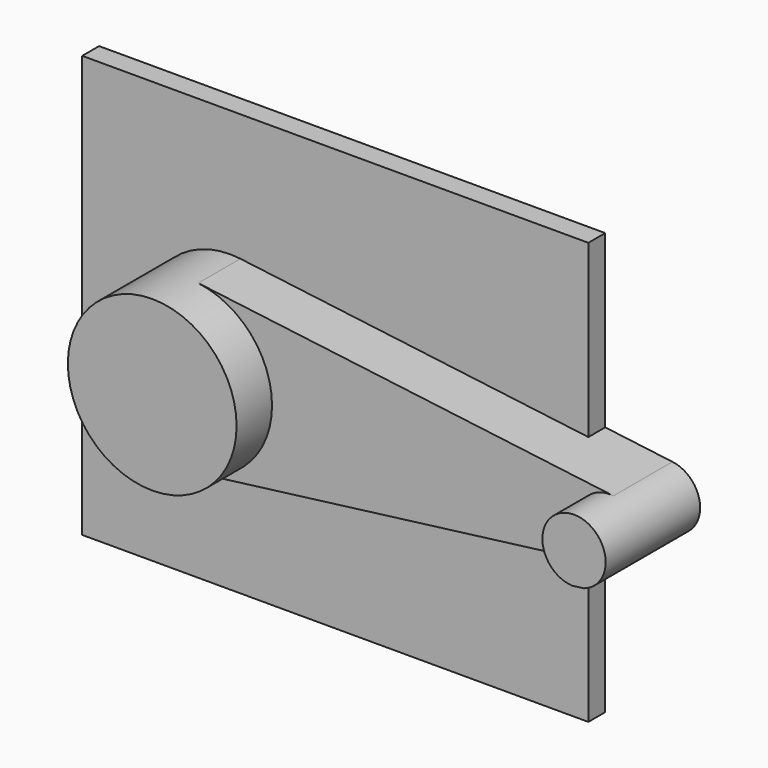
from build123d import *

# Parameters (mm, degrees)
F1_DEPTH = 25.4
F2_DEPTH = 88.9
F3_DEPTH = 142.24


with BuildPart() as f1:
    # F0 (on Front) → F1 (new body)
    with BuildSketch(Plane.XZ):
        with BuildLine():
            Line((228.6, 254), (-381, 254))
            Line((-381, 254), (-381, -254))
            Line((-381, -254), (228.6, -254))
            Line((228.6, -254), (228.6, -47.4305862601))
            Line((228.6, -47.4305862601), (-190.3648431942, -100.7860047317))
            ThreePointArc((-190.3648431942, -100.7860047317), (-304.7999771648, -0.0681183971), (-190.5, 100.8031249516))
            Line((-190.5, 100.8031249516), (228.6, 48.0014880722))
            Line((228.6, 48.0014880722), (228.6, 254))
        make_face()
        with BuildLine():
            Line((309.5625, 37.8011718568), (228.6, 48.0014880722))
            Line((228.6, 48.0014880722), (228.6, -47.4305862601))
            Line((228.6, -47.4305862601), (302.4409560086, -38.0268972104))
            ThreePointArc((302.4409560086, -38.0268972104), (266.8669251864, 3.5625602015), (309.5625, 37.8011718568))
        make_face()
        with BuildLine():
            Line((228.6, -47.4305862601), (228.6, 48.0014880722))
            Line((228.6, 48.0014880722), (-190.5, 100.8031249516))
            ThreePointArc((-190.5, 100.8031249516), (-127, 67.202083301), (-101.6, 0))
            ThreePointArc((-101.6, 0), (-126.9549610418, -67.1509793991), (-190.3648431942, -100.7860047317))
            Line((-190.3648431942, -100.7860047317), (228.6, -47.4305862601))
        make_face()
        with BuildLine():
            ThreePointArc((342.9, 0), (333.375, 25.2007812379), (309.5625, 37.8011718568))
            ThreePointArc((309.5625, 37.8011718568), (266.8669251864, 3.5625602015), (302.4409560086, -38.0268972104))
            Line((302.4409560086, -38.0268972104), (316.6146676198, -36.2218667249))
            ThreePointArc((316.6146676198, -36.2218667249), (335.6362516879, -22.37712184), (342.9, 0))
        make_face()
        with BuildLine():
            Line((316.6146676198, -36.2218667249), (302.4409560086, -38.0268972104))
            ThreePointArc((302.4409560086, -38.0268972104), (309.6131838022, -37.7947517744), (316.6146676198, -36.2218667249))
        make_face()
        with BuildLine():
            ThreePointArc((-101.6, 0), (-127, 67.202083301), (-190.5, 100.8031249516))
            ThreePointArc((-190.5, 100.8031249516), (-304.7999771648, -0.0681183971), (-190.3648431942, -100.7860047317))
            ThreePointArc((-190.3648431942, -100.7860047317), (-126.9549610418, -67.1509793991), (-101.6, 0))
        make_face()
        with BuildLine():
            Line((228.6, -47.4305862601), (228.6, 48.0014880722))
            Line((228.6, 48.0014880722), (-190.5, 100.8031249516))
            ThreePointArc((-190.5, 100.8031249516), (-127, 67.202083301), (-101.6, 0))
            ThreePointArc((-101.6, 0), (-126.9549610418, -67.1509793991), (-190.3648431942, -100.7860047317))
            Line((-190.3648431942, -100.7860047317), (228.6, -47.4305862601))
        make_face()
        with BuildLine():
            Line((309.5625, 37.8011718568), (228.6, 48.0014880722))
            Line((228.6, 48.0014880722), (228.6, -47.4305862601))
            Line((228.6, -47.4305862601), (302.4409560086, -38.0268972104))
            ThreePointArc((302.4409560086, -38.0268972104), (266.8669251864, 3.5625602015), (309.5625, 37.8011718568))
        make_face()
        with BuildLine():
            ThreePointArc((342.9, 0), (333.375, 25.2007812379), (309.5625, 37.8011718568))
            ThreePointArc((309.5625, 37.8011718568), (266.8669251864, 3.5625602015), (302.4409560086, -38.0268972104))
            Line((302.4409560086, -38.0268972104), (316.6146676198, -36.2218667249))
            ThreePointArc((316.6146676198, -36.2218667249), (335.6362516879, -22.37712184), (342.9, 0))
        make_face()
    extrude(amount=F1_DEPTH)

    # F0 (on Front) → F2 (join)
    with BuildSketch(Plane.XZ):
        with BuildLine():
            ThreePointArc((342.9, 0), (333.375, 25.2007812379), (309.5625, 37.8011718568))
            ThreePointArc((309.5625, 37.8011718568), (266.8669251864, 3.5625602015), (302.4409560086, -38.0268972104))
            Line((302.4409560086, -38.0268972104), (316.6146676198, -36.2218667249))
            ThreePointArc((316.6146676198, -36.2218667249), (335.6362516879, -22.37712184), (342.9, 0))
        make_face()
        with BuildLine():
            ThreePointArc((-101.6, 0), (-127, 67.202083301), (-190.5, 100.8031249516))
            ThreePointArc((-190.5, 100.8031249516), (-304.7999771648, -0.0681183971), (-190.3648431942, -100.7860047317))
            ThreePointArc((-190.3648431942, -100.7860047317), (-126.9549610418, -67.1509793991), (-101.6, 0))
        make_face()
        with BuildLine():
            Line((228.6, -47.4305862601), (228.6, 48.0014880722))
            Line((228.6, 48.0014880722), (-190.5, 100.8031249516))
            ThreePointArc((-190.5, 100.8031249516), (-127, 67.202083301), (-101.6, 0))
            ThreePointArc((-101.6, 0), (-126.9549610418, -67.1509793991), (-190.3648431942, -100.7860047317))
            Line((-190.3648431942, -100.7860047317), (228.6, -47.4305862601))
        make_face()
        with BuildLine():
            Line((309.5625, 37.8011718568), (228.6, 48.0014880722))
            Line((228.6, 48.0014880722), (228.6, -47.4305862601))
            Line((228.6, -47.4305862601), (302.4409560086, -38.0268972104))
            ThreePointArc((302.4409560086, -38.0268972104), (266.8669251864, 3.5625602015), (309.5625, 37.8011718568))
        make_face()
    extrude(amount=F2_DEPTH)

    # F0 (on Front) → F3 (join)
    with BuildSketch(Plane.XZ):
        with BuildLine():
            ThreePointArc((342.9, 0), (333.375, 25.2007812379), (309.5625, 37.8011718568))
            ThreePointArc((309.5625, 37.8011718568), (266.8669251864, 3.5625602015), (302.4409560086, -38.0268972104))
            Line((302.4409560086, -38.0268972104), (316.6146676198, -36.2218667249))
            ThreePointArc((316.6146676198, -36.2218667249), (335.6362516879, -22.37712184), (342.9, 0))
        make_face()
        with BuildLine():
            ThreePointArc((-101.6, 0), (-127, 67.202083301), (-190.5, 100.8031249516))
            ThreePointArc((-190.5, 100.8031249516), (-304.7999771648, -0.0681183971), (-190.3648431942, -100.7860047317))
            ThreePointArc((-190.3648431942, -100.7860047317), (-126.9549610418, -67.1509793991), (-101.6, 0))
        make_face()
    extrude(amount=F3_DEPTH)


solid = f1.part
